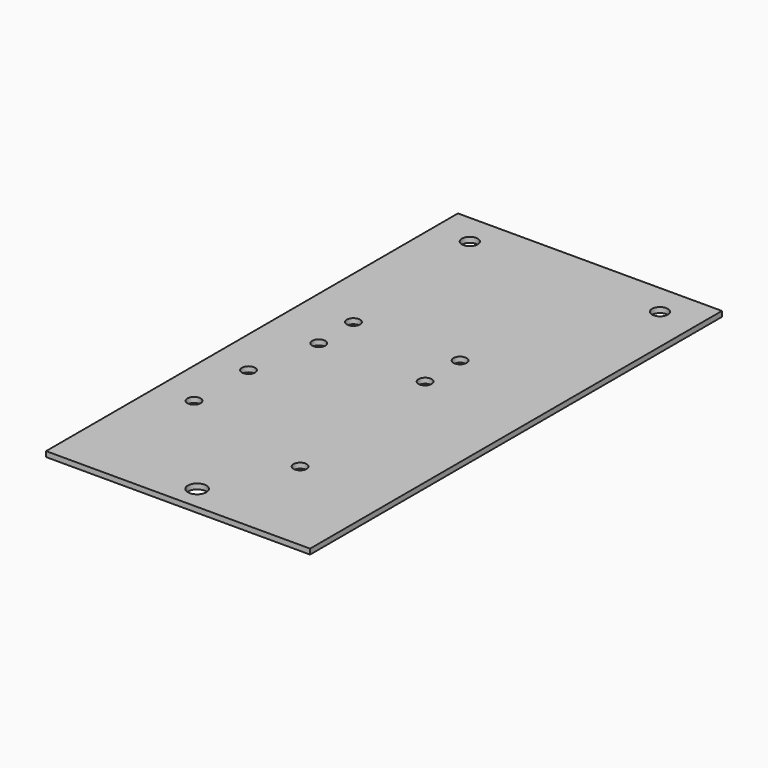
from build123d import *

# Parameters (mm, degrees)
F0_W     = 100
F0_H     = 30
F0_R     = 3.5
F0_H_2   = 100
F0_R_2   = 2.5
F0_H_3   = 65
F0_R_3   = 3
F1_DEPTH = 2


with BuildPart() as f1:
    # F0 (on Top) → F1 (new body)
    with BuildSketch(Plane.XY):
        with Locations((50, 11.390658)):
            Rectangle(F0_W, F0_H)
        with Locations((50, 5.390658)):
            Circle(F0_R, mode=Mode.SUBTRACT)
        with Locations((50, 76.390658)):
            Rectangle(F0_W, F0_H_2)
        with Locations((14.045889, 48.890658)):
            Circle(F0_R_2, mode=Mode.SUBTRACT)
        with Locations((14.371501, 74.288571)):
            Circle(F0_R_2, mode=Mode.SUBTRACT)
        with Locations((64.845889, 35.633259)):
            Circle(F0_R_2, mode=Mode.SUBTRACT)
        with Locations((19.840248, 100.720075)):
            Circle(F0_R_2, mode=Mode.SUBTRACT)
        with Locations((19.357387, 117.720075)):
            Circle(F0_R_2, mode=Mode.SUBTRACT)
        with Locations((59.722181, 101.20294)):
            Circle(F0_R_2, mode=Mode.SUBTRACT)
        with Locations((59.357387, 118.20294)):
            Circle(F0_R_2, mode=Mode.SUBTRACT)
        with Locations((50, 158.890658)):
            Rectangle(F0_W, F0_H_3)
        with Locations((14, 179.526627)):
            Circle(F0_R_3, mode=Mode.SUBTRACT)
        with Locations((86, 179.526627)):
            Circle(F0_R_3, mode=Mode.SUBTRACT)
    extrude(amount=F1_DEPTH)


solid = f1.part
